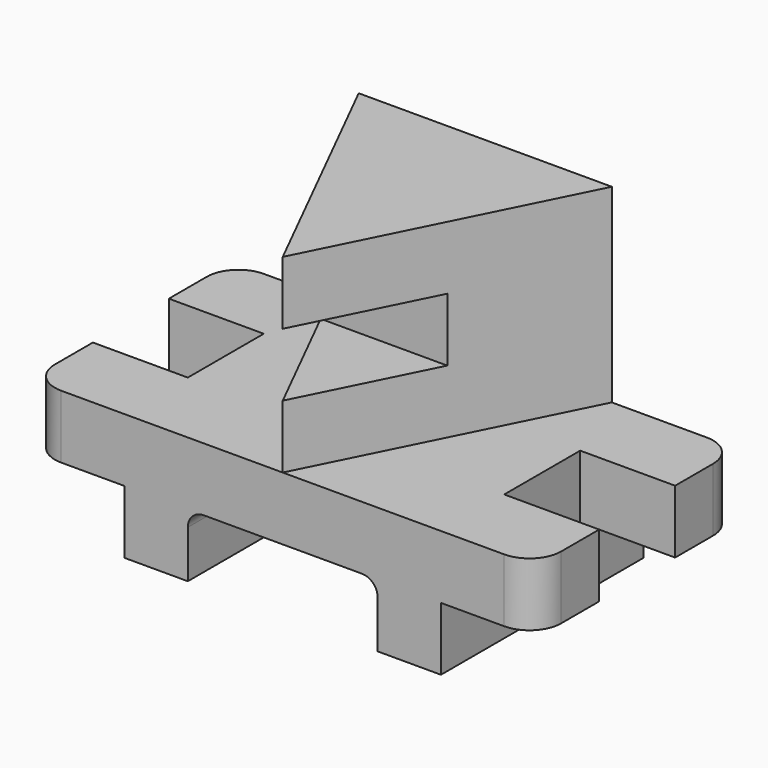
from build123d import *

# Parameters (mm, degrees)
F0_W      = 203.2
F0_H      = 50.8
F1_DEPTH  = 50.8
F2_W      = 38.1
F2_H      = 38.1
F3_DEPTH  = 50.801
F4_DEPTH  = 50.801
F5_W      = 101.6
F5_H      = 25.4
F6_DEPTH  = 38.1
F7_W      = 31.75
F7_H      = 25.4
F7_W_2    = 38.1
F8_DEPTH  = 38.1
F10_DEPTH = 101.601
F12_DEPTH = 50.801
F14_DEPTH = 76.2
F16_START = -25.4
F16_DEPTH = 25.4


with BuildPart() as f1:
    # F0 (on Front) → F1 (new body, symmetric)
    with BuildSketch(Plane.XZ):
        with Locations((101.6, 25.4)):
            Rectangle(F0_W, F0_H)
    extrude(amount=F1_DEPTH, both=True)

    # F2 (on face) → F3 (cut, through all)
    with BuildSketch(Plane.XY.offset(50.8)):
        with Locations((184.15, 0)):
            Rectangle(F2_W, F2_H)
    extrude(amount=-F3_DEPTH, mode=Mode.SUBTRACT)

    # F2 (on face) → F4 (cut, through all)
    with BuildSketch(Plane.XY.offset(50.8)):
        with Locations((19.05, 0)):
            Rectangle(F2_W, F2_H)
    extrude(amount=-F4_DEPTH, mode=Mode.SUBTRACT)

    # F5 (on Right) → F6 (cut)
    with BuildSketch(Plane.YZ):
        with Locations((0, 12.7)):
            Rectangle(F5_W, F5_H)
    extrude(amount=F6_DEPTH, mode=Mode.SUBTRACT)

    # F7 (on face) → F8 (cut)
    with BuildSketch(Plane.YZ.offset(165.1)):
        with Locations((34.925, 12.7)):
            Rectangle(F7_W, F7_H)
        with Locations((0, 12.7)):
            Rectangle(F7_W_2, F7_H)
        with Locations((-34.925, 12.7)):
            Rectangle(F7_W, F7_H)
    extrude(amount=F8_DEPTH, mode=Mode.SUBTRACT)

    # F9 (on face) → F10 (cut, through all)
    with BuildSketch(Plane.XZ.offset(50.8)):
        with BuildLine():
            Line((63.5, 19.0500015557), (63.5, 0))
            Line((63.5, 0), (139.7, 0))
            Line((139.7, 0), (139.7, 19.0500015557))
            ThreePointArc((139.7, 19.0500015557), (137.8401280605, 23.5401296162), (133.35, 25.4000015557))
            Line((133.35, 25.4000015557), (69.85, 25.4000015557))
            ThreePointArc((69.85, 25.4000015557), (65.3598719395, 23.5401296162), (63.5, 19.0500015557))
        make_face()
    extrude(amount=-F10_DEPTH, mode=Mode.SUBTRACT)

    # F11 (on face) → F12 (cut, through all)
    with BuildSketch(Plane.XY.offset(50.8)):
        with BuildLine():
            Line((0, 50.8), (0, 38.1))
            ThreePointArc((0, 38.1), (3.7197438789, 47.0802561211), (12.7, 50.8))
            Line((12.7, 50.8), (0, 50.8))
        make_face()
        with BuildLine():
            Line((0, -50.8), (12.7, -50.8))
            ThreePointArc((12.7, -50.8), (3.7197438789, -47.0802561211), (0, -38.1))
            Line((0, -38.1), (0, -50.8))
        make_face()
        with BuildLine():
            ThreePointArc((203.2, -38.1), (199.4802561211, -47.0802561211), (190.5, -50.8))
            Line((190.5, -50.8), (203.2, -50.8))
            Line((203.2, -50.8), (203.2, -38.1))
        make_face()
        with BuildLine():
            ThreePointArc((190.5, 50.8), (199.4802561211, 47.0802561211), (203.2, 38.1))
            Line((203.2, 38.1), (203.2, 50.8))
            Line((203.2, 50.8), (190.5, 50.8))
        make_face()
    extrude(amount=-F12_DEPTH, mode=Mode.SUBTRACT)

    # F13 (on face) → F14 (join)
    with BuildSketch(Plane.XY.offset(50.8)):
        Polygon((152.4, 50.8), (50.8, 50.8), (101.6, -50.8), align=None)
    extrude(amount=F14_DEPTH)

    # F15 (on face) → F16 (cut)
    with BuildSketch(Plane.XY.offset(127).offset(F16_START)):
        Polygon((101.6, -50.8), (127, 0), (76.2, 0), align=None)
    extrude(amount=-F16_DEPTH, mode=Mode.SUBTRACT)


solid = f1.part
